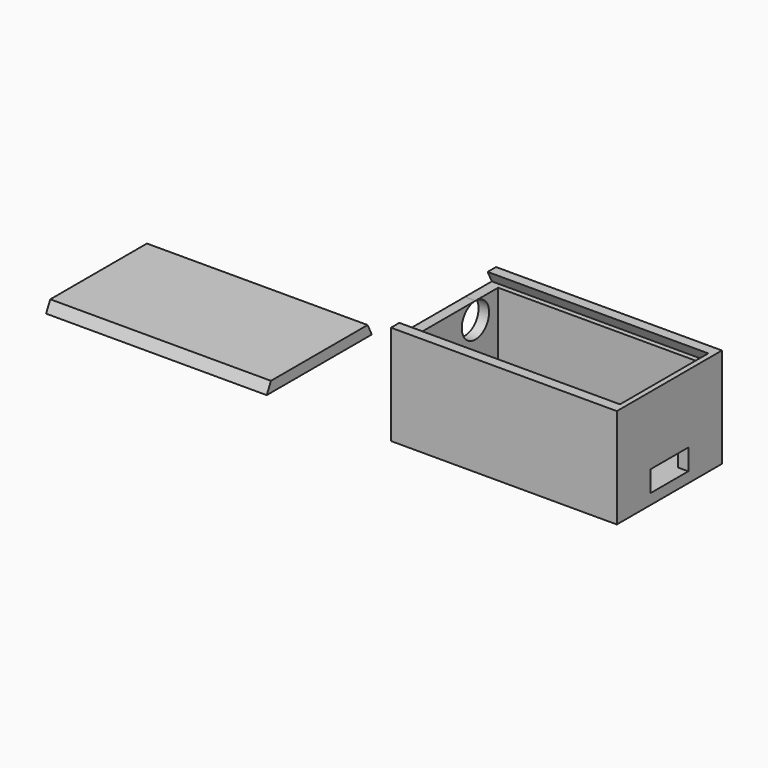
from build123d import *

# Parameters (mm, degrees)
SKETCH_W        = 43
SKETCH_H        = 25
PAD_DEPTH       = 19
SKETCH001_W     = 39
SKETCH001_H     = 21
POCKET_DEPTH    = 17
SKETCH002_W     = 9
SKETCH002_H     = 4
POCKET001_DEPTH = 2
SKETCH003_W     = 21
SKETCH003_H     = 2
POCKET002_DEPTH = 1
SKETCH004_W     = 2
SKETCH004_H     = 21
POCKET003_DEPTH = 2
SKETCH005_W     = 7
SKETCH005_H     = 9
PAD001_DEPTH    = 2
SKETCH006_W     = 6
SKETCH006_H     = 9
POCKET004_DEPTH = 1
SKETCH007_R     = 3.25
POCKET005_DEPTH = 2
POCKET006_DEPTH = 42
SKETCH010_W     = 42
SKETCH010_H     = 25
PAD002_DEPTH    = 2
POCKET007_DEPTH = 42


with BuildPart() as body:
    # Sketch → Pad (new body)
    with BuildSketch(Plane.XY):
        Rectangle(SKETCH_W, SKETCH_H)
    extrude(amount=PAD_DEPTH)

    # Sketch001 (on Face6 of Pad) → Pocket (cut)
    with BuildSketch(Plane.XY.offset(19)):
        Rectangle(SKETCH001_W, SKETCH001_H)
    extrude(amount=-POCKET_DEPTH, mode=Mode.SUBTRACT)

    # Sketch002 (on Face6 of Pocket) → Pocket001 (cut)
    with BuildSketch(Plane.YZ.offset(21.5)):
        with Locations((0, 4)):
            Rectangle(SKETCH002_W, SKETCH002_H)
    extrude(amount=-POCKET001_DEPTH, mode=Mode.SUBTRACT)

    # Sketch003 (on Face9 of Pocket001) → Pocket002 (cut)
    with BuildSketch(Plane(origin=(19.5, 0, 0), x_dir=(0, -1, 0), z_dir=(-1, 0, 0))):
        with Locations((0, 18)):
            Rectangle(SKETCH003_W, SKETCH003_H)
    extrude(amount=-POCKET002_DEPTH, mode=Mode.SUBTRACT)

    # Sketch004 (on Face5 of Pocket002) → Pocket003 (cut)
    with BuildSketch(Plane.XY.offset(19)):
        with Locations((-20.5, 0)):
            Rectangle(SKETCH004_W, SKETCH004_H)
    extrude(amount=-POCKET003_DEPTH, mode=Mode.SUBTRACT)

    # Sketch005 (on Face21 of Pocket003) → Pad001 (join)
    with BuildSketch(Plane.XY.offset(2)):
        with Locations((10, 0)):
            Rectangle(SKETCH005_W, SKETCH005_H)
    extrude(amount=PAD001_DEPTH)

    # Sketch006 (on Face27 of Pad001) → Pocket004 (cut)
    with BuildSketch(Plane.XY.offset(4)):
        with Locations((9.5, 0)):
            Rectangle(SKETCH006_W, SKETCH006_H)
    extrude(amount=-POCKET004_DEPTH, mode=Mode.SUBTRACT)

    # Sketch007 (on Face1 of Pocket004) → Pocket005 (cut)
    with BuildSketch(Plane(origin=(-21.5, 0, 0), x_dir=(0, -1, 0), z_dir=(-1, 0, 0))):
        with Locations((-5.1, 13.75)):
            Circle(SKETCH007_R)
    extrude(amount=-POCKET005_DEPTH, mode=Mode.SUBTRACT)

    # Sketch009 (on Face1 of Pocket005) → Pocket006 (cut)
    with BuildSketch(Plane(origin=(-21.5, 0, 0), x_dir=(0, -1, 0), z_dir=(-1, 0, 0))):
        Polygon((-10.5, 19), (-11.5, 17), (-10.5, 17), align=None)
    pocket006 = extrude(amount=-POCKET006_DEPTH, mode=Mode.SUBTRACT)

    # Mirrored: Pocket006 across Sketch009 V_Axis
    add(pocket006.mirror(Plane(origin=(-21.5, 0, 0), x_dir=(-1, 0, 0), z_dir=(0, -1, 0))), mode=Mode.SUBTRACT)


with BuildPart() as body001:
    # Sketch010 → Pad002 (new body)
    with BuildSketch(Plane.XY):
        with Locations((-66.144579, 0)):
            Rectangle(SKETCH010_W, SKETCH010_H)
    extrude(amount=PAD002_DEPTH)

    # Sketch011 (on Face1 of Pad002) → Pocket007 (cut)
    with BuildSketch(Plane(origin=(-87.144579, 0, 0), x_dir=(0, -1, 0), z_dir=(-1, 0, 0))):
        Polygon((-11.5, 2), (-12.5, 0), (-12.5, 2), align=None)
    pocket007 = extrude(amount=-POCKET007_DEPTH, mode=Mode.SUBTRACT)

    # Mirrored001: Pocket007 across Sketch011 V_Axis
    add(pocket007.mirror(Plane(origin=(-87.144579, 0, 0), x_dir=(-1, 0, 0), z_dir=(0, -1, 0))), mode=Mode.SUBTRACT)


solid = Compound([body.part, body001.part])
